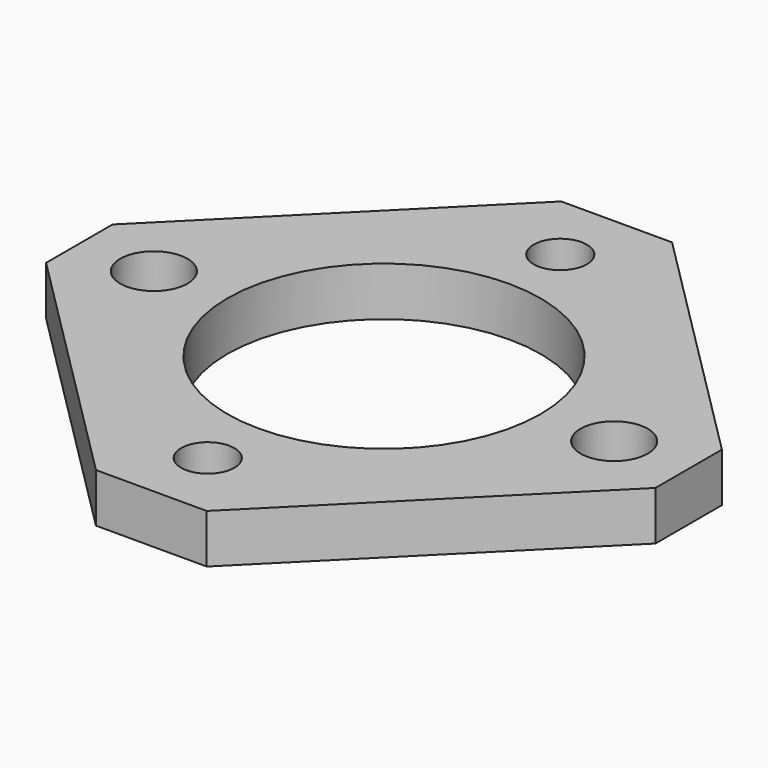
from build123d import *

# Parameters (mm, degrees)
F0_R     = 3.4544
F0_R_2   = 4.365625
F0_R_3   = 20.32
F1_DEPTH = 6.35
F2_SIZE  = 10.16
F3_SIZE  = 7.62


with BuildPart() as f1:
    # F0 (on Top) → F1 (new body)
    with BuildSketch(Plane.XY):
        Polygon((44.901281, 0), (0, 44.901281), (-44.901281, 0), (0, -44.901281), align=None)
        with Locations((0, -28.575)):
            Circle(F0_R, mode=Mode.SUBTRACT)
        with Locations((-29.845, 0)):
            Circle(F0_R_2, mode=Mode.SUBTRACT)
        Circle(F0_R_3, mode=Mode.SUBTRACT)
        with Locations((0, 28.575)):
            Circle(F0_R, mode=Mode.SUBTRACT)
        with Locations((29.845, 0)):
            Circle(F0_R_2, mode=Mode.SUBTRACT)
    extrude(amount=F1_DEPTH)

    # F2
    f2_edges = [f1.edges().sort_by_distance(p)[0] for p in [
        (0, 44.901281, 3.175),
        (0, -44.901281, 3.175),
    ]]
    chamfer(f2_edges, length=F2_SIZE)

    # F3
    f3_edges = [f1.edges().sort_by_distance(p)[0] for p in [
        (-44.901281, 0, 3.175),
        (44.901281, 0, 3.175),
    ]]
    chamfer(f3_edges, length=F3_SIZE)


solid = f1.part
